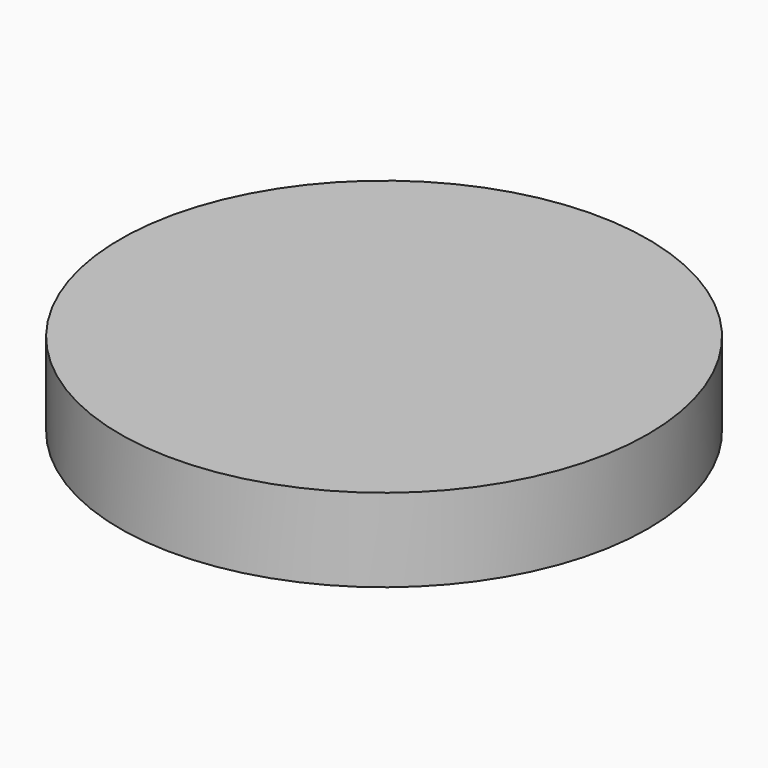
from build123d import *

# Parameters (mm, degrees)
F0_R     = 7.9325
F1_DEPTH = 2
F2_DEPTH = 0.5


with BuildPart() as f1:
    # F0 (on Top) → F1 (new body)
    with BuildSketch(Plane.XY):
        Circle(F0_R)
    extrude(amount=F1_DEPTH)

    # F0 (on Top) → F2 (join)
    with BuildSketch(Plane.XY):
        Circle(F0_R)
    extrude(amount=-F2_DEPTH)


solid = f1.part
